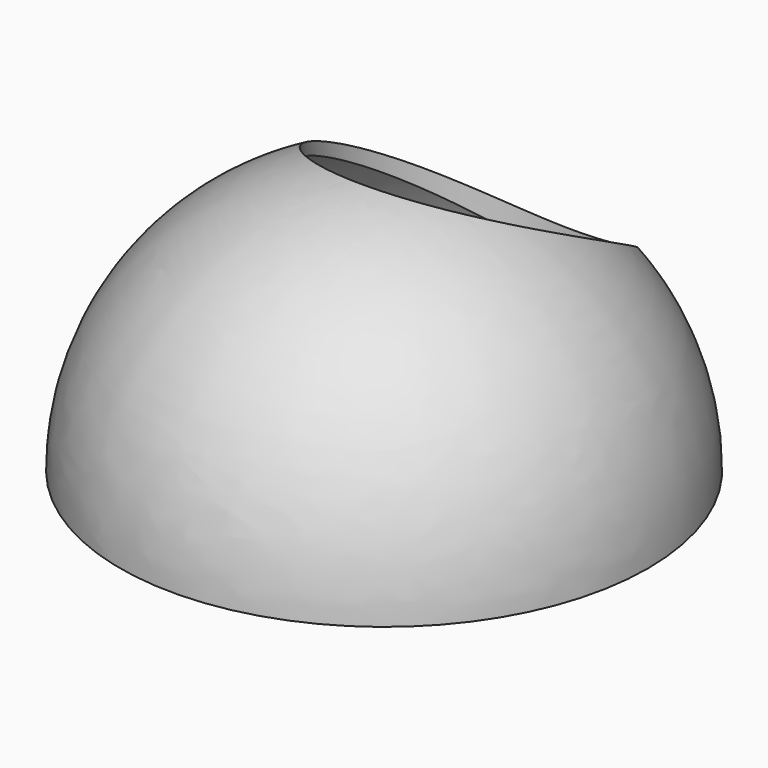
from build123d import *

# Parameters (mm, degrees)
F2_T     = -2
F3_R     = 49
F4_DEPTH = 2
F5_R     = 25
F6_DEPTH = 50.001


with BuildPart() as f1:
    # F0 (on Front) → F1 (revolve)
    with BuildSketch(Plane.XZ):
        with BuildLine():
            Line((0, 50), (0, 0))
            Line((0, 0), (50, 0))
            ThreePointArc((50, 0), (35.355339, 35.355339), (0, 50))
        make_face()
        with BuildLine():
            Line((0, 50), (0, 0))
            Line((0, 0), (50, 0))
            ThreePointArc((50, 0), (35.355339, 35.355339), (0, 50))
        make_face()
    revolve(axis=Axis((0, 0, 25), (0, 0, 1)))

    # F2
    f2_openings = [f1.faces().sort_by_distance(p)[0] for p in [
        (0, 0, 0),
    ]]
    offset(amount=F2_T, openings=f2_openings)

    # F3 (on Top) → F4 (cut)
    with BuildSketch(Plane.XY):
        Circle(F3_R)
    extrude(amount=F4_DEPTH, mode=Mode.SUBTRACT)

    # F5 (on Top) → F6 (cut, through all)
    with BuildSketch(Plane.XY):
        with Locations((0, 20)):
            Circle(F5_R)
    extrude(amount=F6_DEPTH, mode=Mode.SUBTRACT)


solid = f1.part
